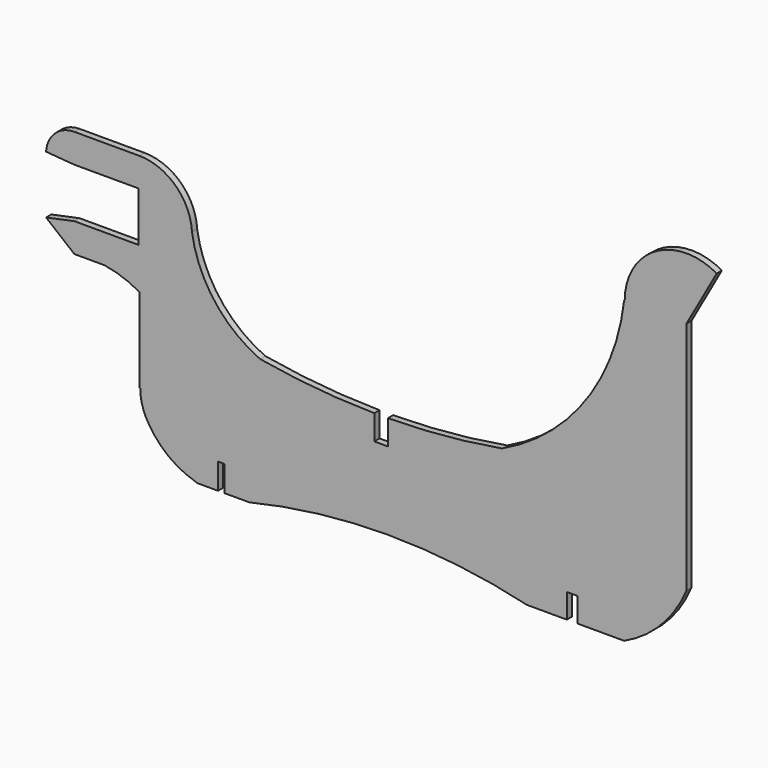
from build123d import *

# Parameters (mm, degrees)
F1_DEPTH = 3


with BuildPart() as f1:
    # F0 (on Front) → F1 (new body)
    with BuildSketch(Plane.XZ):
        with BuildLine():
            Line((-100, 71.5043097734), (-100, 30))
            Line((-100, 30), (-68.4474930168, 30))
            ThreePointArc((-68.4474930168, 30), (-89.5290711605, 46.7189281194), (-100, 71.5043097734))
        make_face()
        with BuildLine():
            Line((-68.4474930168, 30), (-100, 30))
            Line((-100, 30), (-100, 23.9479522939))
            ThreePointArc((-100, 23.9479522939), (-77.4009003412, 7.9237058049), (-85.0451834083, -18.7044882255))
            Line((-85.0451834083, -18.7044882255), (-85.0451834083, -30))
            Line((-85.0451834083, -30), (-73.4999999404, -30))
            ThreePointArc((-73.4999999404, -30), (-9.236112237, -22.3609557327), (55.0277754664, -30))
            Line((55.0277754664, -30), (73.458686471, -30))
            Line((73.458686471, -30), (73.458686471, -18.7292341143))
            Line((73.458686471, -18.7292341143), (78.4938633442, -18.7292341143))
            Line((78.4938633442, -18.7292341143), (78.4938633442, -30))
            Line((78.4938633442, -30), (100, -30))
            Line((100, -30), (100, 0))
            Line((100, 0), (100, 30))
            Line((100, 30), (43.509118259, 30))
            ThreePointArc((43.509118259, 30), (17.1951254295, 26.500256647), (-9.3166837469, 25.1592136325))
            Line((-9.3166837469, 25.1592136325), (-9.3166837469, 13.6418417096))
            Line((-9.3166837469, 13.6418417096), (-15.6216910109, 13.6418417096))
            Line((-15.6216910109, 13.6418417096), (-15.6216910109, 25.1592136325))
            ThreePointArc((-15.6216910109, 25.1592136325), (-42.1335001872, 26.500256647), (-68.4474930168, 30))
        make_face()
        with BuildLine():
            Line((-100, 23.9479522939), (-100, 30))
            Line((-100, 30), (-100, 71.5043097734))
            Line((-100, 71.5043097734), (-124.3806779385, 71.5043097734))
            Line((-124.3806779385, 71.5043097734), (-124.3806779385, 44.8159986225))
            Line((-124.3806779385, 44.8159986225), (-124.3806779385, 39.189517498))
            Line((-124.3806779385, 39.189517498), (-124.3806779385, 0))
            Line((-124.3806779385, 0), (-123.9479522939, 0))
            ThreePointArc((-123.9479522939, 0), (-116.9337594626, 16.9337594626), (-100, 23.9479522939))
        make_face()
        with BuildLine():
            ThreePointArc((-85.0451834083, -18.7044882255), (-77.4009003412, 7.9237058049), (-100, 23.9479522939))
            Line((-100, 23.9479522939), (-100, 0))
            Line((-100, 0), (-100, -23.9479522939))
            ThreePointArc((-100, -23.9479522939), (-93.7566918243, -23.119808003), (-87.9451834083, -20.6926512562))
            Line((-87.9451834083, -20.6926512562), (-87.9451834083, -18.0708928406))
            Line((-87.9451834083, -18.0708928406), (-85.0451834083, -18.0708928406))
            Line((-85.0451834083, -18.0708928406), (-85.0451834083, -18.7044882255))
        make_face()
        with BuildLine():
            Line((-100, 0), (-100, 23.9479522939))
            ThreePointArc((-100, 23.9479522939), (-116.9337594626, 16.9337594626), (-123.9479522939, 0))
            Line((-123.9479522939, 0), (-100, 0))
        make_face()
        with BuildLine():
            Line((-124.3806779385, 71.5043097734), (-100, 71.5043097734))
            ThreePointArc((-100, 71.5043097734), (-107.5768900996, 87.9325587369), (-124.3806779385, 94.6354940534))
            Line((-124.3806779385, 94.6354940534), (-124.3806779385, 71.5043097734))
        make_face()
        with BuildLine():
            Line((-100, -23.9479522939), (-100, 0))
            Line((-100, 0), (-123.9479522939, 0))
            ThreePointArc((-123.9479522939, 0), (-123.561080085, -4.2871813932), (-122.4129630745, -8.4358464478))
            ThreePointArc((-122.4129630745, -8.4358464478), (-121.2500665042, -10.9208672377), (-119.9064756979, -13.3130253647))
            ThreePointArc((-119.9064756979, -13.3130253647), (-111.2846072761, -21.1225485606), (-100, -23.9479522939))
        make_face()
        Polygon((-124.3806779385, 44.8159986225), (-124.3806779385, 71.5043097734), (-124.3806779385, 94.6354940534), (-154.4115646049, 94.6354940534), (-154.4115646049, 81.2257463379), (-124.6924658106, 81.2257463379), (-124.6924658106, 58.2257463379), (-154.4115646049, 58.2257463379), (-154.4115646049, 44.8159986225), (-140.5599779571, 44.8159986225), align=None)
        with BuildLine():
            ThreePointArc((-87.9451834083, -20.6926512562), (-93.7566918243, -23.119808003), (-100, -23.9479522939))
            Line((-100, -23.9479522939), (-100, -27))
            ThreePointArc((-100, -27), (-99.5920709422, -28.5103536773), (-98.4792211797, -29.6099625862))
            ThreePointArc((-98.4792211797, -29.6099625862), (-97.7416237075, -29.812616064), (-97, -30))
            Line((-97, -30), (-87.9451834083, -30))
            Line((-87.9451834083, -30), (-87.9451834083, -20.6926512562))
        make_face()
        with BuildLine():
            Line((-100, -27), (-100, -23.9479522939))
            ThreePointArc((-100, -23.9479522939), (-111.2846072761, -21.1225485606), (-119.9064756979, -13.3130253647))
            ThreePointArc((-119.9064756979, -13.3130253647), (-110.7252490766, -23.4762982325), (-98.4792211797, -29.6099625862))
            ThreePointArc((-98.4792211797, -29.6099625862), (-99.5920709422, -28.5103536773), (-100, -27))
        make_face()
        with BuildLine():
            ThreePointArc((-119.9064756979, -13.3130253647), (-121.2500665042, -10.9208672377), (-122.4129630745, -8.4358464478))
            ThreePointArc((-122.4129630745, -8.4358464478), (-121.2997756573, -10.946413843), (-119.9064756979, -13.3130253647))
        make_face()
        with BuildLine():
            Line((-124.3806779385, 39.189517498), (-124.3806779385, 44.8159986225))
            Line((-124.3806779385, 44.8159986225), (-140.5599779571, 44.8159986225))
            ThreePointArc((-140.5599779571, 44.8159986225), (-132.2111646691, 42.7479983529), (-124.3806779385, 39.189517498))
        make_face()
        with BuildLine():
            Line((-154.4115646049, 81.2257463379), (-154.4115646049, 94.6354940534))
            ThreePointArc((-154.4115646049, 94.6354940534), (-163.4199195991, 91.0594551964), (-167.5229668617, 82.2785943747))
            Line((-167.5229668617, 82.2785943747), (-154.4115646049, 81.2257463379))
        make_face()
        with BuildLine():
            ThreePointArc((-97, -30), (-97.7416237075, -29.812616064), (-98.4792211797, -29.6099625862))
            ThreePointArc((-98.4792211797, -29.6099625862), (-97.7648896134, -29.9008522678), (-97, -30))
        make_face()
        Polygon((-167.5229668617, 55.4901845753), (-154.4115646049, 44.8159986225), (-154.4115646049, 58.2257463379), align=None)
        with BuildLine():
            ThreePointArc((100, 108.6442619568), (82.0137314179, 61.9528751155), (43.509118259, 30))
            Line((43.509118259, 30), (100, 30))
            Line((100, 30), (100, 108.6442619568))
        make_face()
        with BuildLine():
            ThreePointArc((100.2573479135, 108.64405), (100.1286740004, 108.6442089676), (100, 108.6442619568))
            Line((100, 108.6442619568), (100, 30))
            Line((100, 30), (100, 0))
            Line((100, 0), (128.8781613111, 0))
            Line((128.8781613111, 0), (128.8781613111, 80.0234485584))
            ThreePointArc((128.8781613111, 80.0234485584), (108.6402650122, 88.4062157818), (100.2573479135, 108.64405))
        make_face()
        with BuildLine():
            Line((100.2573479127, 108.6442619568), (100, 108.6442619568))
            ThreePointArc((100, 108.6442619568), (100.1286740004, 108.6442089676), (100.2573479135, 108.64405))
            ThreePointArc((100.2573479135, 108.64405), (100.2573479129, 108.6441559784), (100.2573479127, 108.6442619568))
        make_face()
        with BuildLine():
            ThreePointArc((142.8596985833, 133.6175992408), (114.4042539206, 133.3354944988), (100.2573479127, 108.6442619568))
            Line((100.2573479127, 108.6442619568), (128.8781613111, 108.6442619568))
            Line((128.8781613111, 108.6442619568), (142.8596985833, 133.6175992408))
        make_face()
        with BuildLine():
            Line((128.8781613111, 108.6442619568), (100.2573479127, 108.6442619568))
            ThreePointArc((100.2573479127, 108.6442619568), (100.2573479129, 108.6441559784), (100.2573479135, 108.64405))
            ThreePointArc((100.2573479135, 108.64405), (114.6298030847, 107.9577659942), (128.8781613111, 105.9520887429))
            Line((128.8781613111, 105.9520887429), (128.8781613111, 108.6442619568))
        make_face()
        with BuildLine():
            ThreePointArc((128.8781613111, 105.9520887429), (114.6298030847, 107.9577659942), (100.2573479135, 108.64405))
            ThreePointArc((100.2573479135, 108.64405), (108.6402650122, 88.4062157818), (128.8781613111, 80.0234485584))
            Line((128.8781613111, 80.0234485584), (128.8781613111, 105.9520887429))
        make_face()
        with BuildLine():
            Line((128.8781613111, 0), (100, 0))
            Line((100, 0), (100, -30))
            ThreePointArc((100, -30), (117.2918939431, -17.7461334103), (128.8781613111, 0))
        make_face()
    extrude(amount=F1_DEPTH)


solid = f1.part
